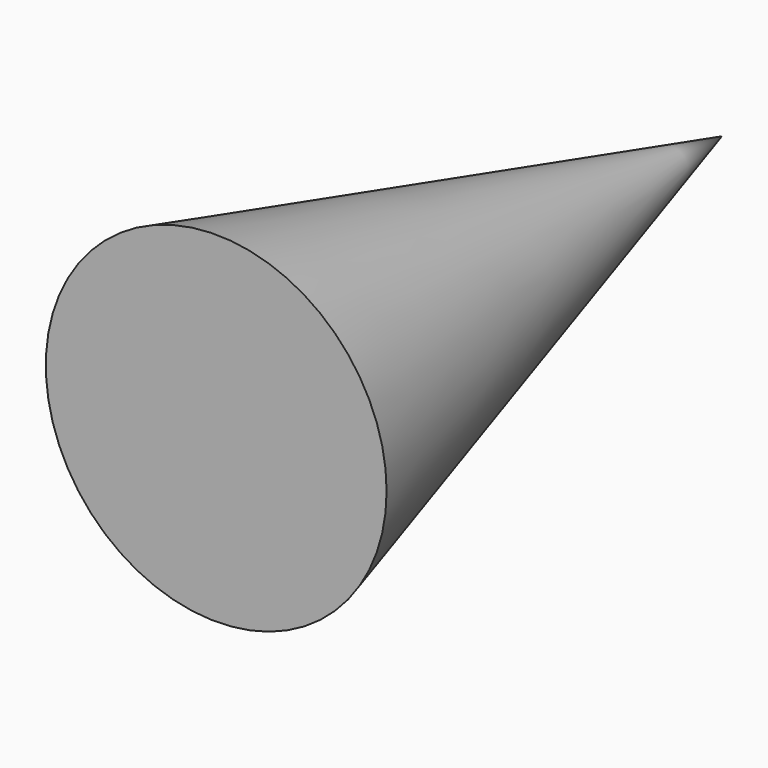
from build123d import *


with BuildPart() as f1:
    # F0 (on Top) → F1 (revolve)
    with BuildSketch(Plane.XY):
        Polygon((0, 33.097662), (0, 0), (8.92198, 0), align=None)
    revolve(axis=Axis((0, 16.548831, 0), (0, 1, 0)))


solid = f1.part
